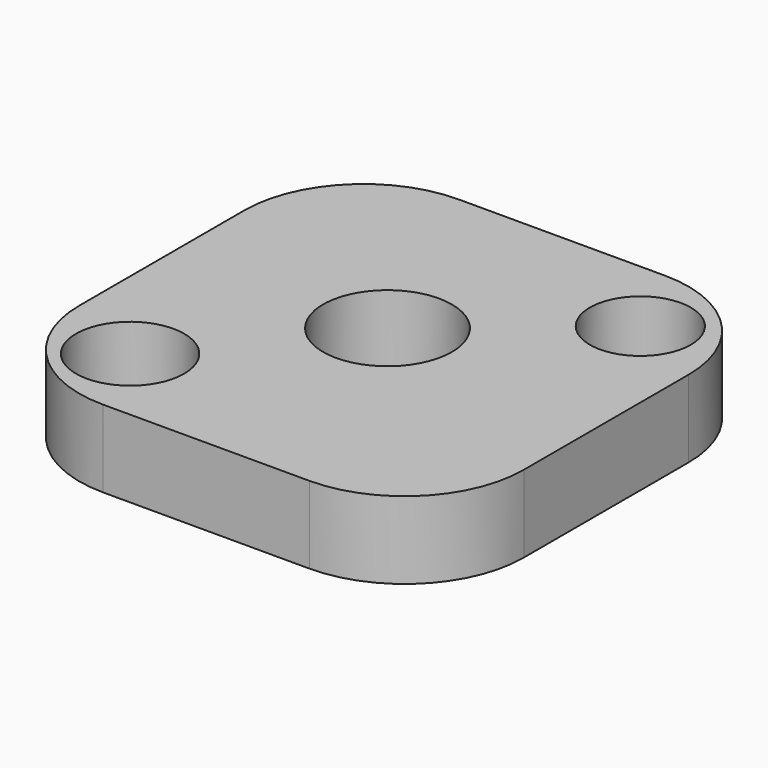
from build123d import *

# Parameters (mm, degrees)
SKETCH_R     = 25
SKETCH_R_2   = 21
SKETCH_R_3   = 19.584537
PAD_DEPTH    = 30
PAD001_DEPTH = 30


with BuildPart() as part:
    # Sketch → Pad (new body)
    with BuildSketch(Plane.XY):
        with BuildLine():
            Line((-35.584206, -63.111127), (44.415794, -63.111127))
            ThreePointArc((44.415794, -63.111127), (77.13309, -49.55918), (90.685038, -16.841884))
            Line((90.685038, -16.841884), (90.685038, 63.158116))
            ThreePointArc((90.685038, 63.158116), (77.13309, 95.875412), (44.415794, 109.427359))
            Line((44.415794, 109.427359), (-35.584206, 109.427359))
            ThreePointArc((-35.584206, 109.427359), (-68.301501, 95.875412), (-81.853449, 63.158116))
            Line((-81.853449, 63.158116), (-81.853449, -16.841884))
            ThreePointArc((-81.853449, -16.841884), (-68.301501, -49.55918), (-35.584206, -63.111127))
        make_face()
        with Locations((0.354903, 29.932245)):
            Circle(SKETCH_R, mode=Mode.SUBTRACT)
        with Locations((-50.106209, -31.898642)):
            Circle(SKETCH_R_2, mode=Mode.SUBTRACT)
        with Locations((59.362869, 78.858307)):
            Circle(SKETCH_R_3, mode=Mode.SUBTRACT)
    extrude(amount=PAD_DEPTH)

    # Sketch → Pad001 (join)
    with BuildSketch(Plane.XY):
        with BuildLine():
            Line((-35.584206, -63.111127), (44.415794, -63.111127))
            ThreePointArc((44.415794, -63.111127), (77.13309, -49.55918), (90.685038, -16.841884))
            Line((90.685038, -16.841884), (90.685038, 63.158116))
            ThreePointArc((90.685038, 63.158116), (77.13309, 95.875412), (44.415794, 109.427359))
            Line((44.415794, 109.427359), (-35.584206, 109.427359))
            ThreePointArc((-35.584206, 109.427359), (-68.301501, 95.875412), (-81.853449, 63.158116))
            Line((-81.853449, 63.158116), (-81.853449, -16.841884))
            ThreePointArc((-81.853449, -16.841884), (-68.301501, -49.55918), (-35.584206, -63.111127))
        make_face()
        with Locations((0.354903, 29.932245)):
            Circle(SKETCH_R, mode=Mode.SUBTRACT)
        with Locations((-50.106209, -31.898642)):
            Circle(SKETCH_R_2, mode=Mode.SUBTRACT)
        with Locations((59.362869, 78.858307)):
            Circle(SKETCH_R_3, mode=Mode.SUBTRACT)
    extrude(amount=PAD001_DEPTH)


solid = part.part
